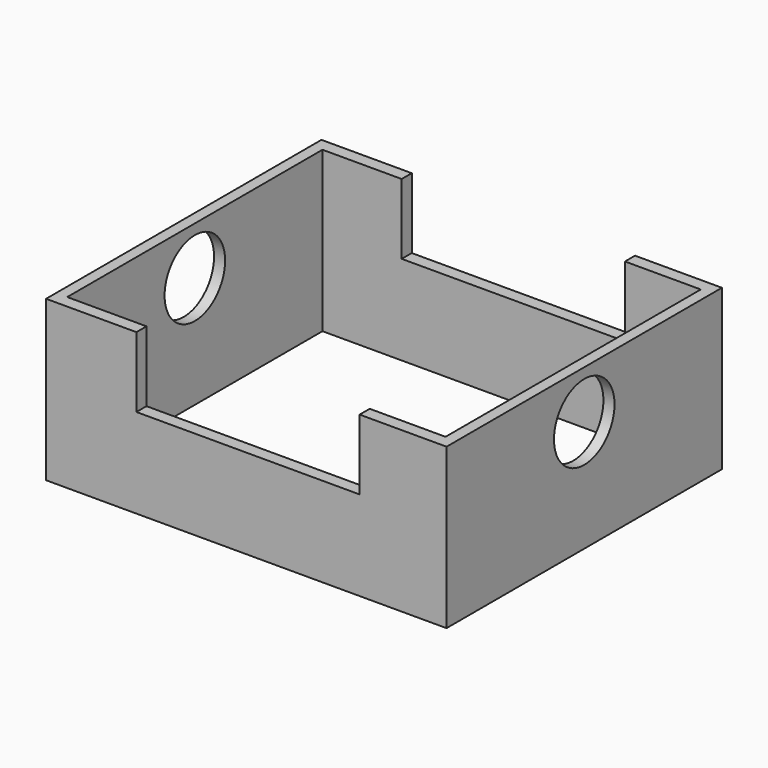
from build123d import *

# Parameters (mm, degrees)
F0_W     = 136.2489163876
F0_H     = 117.116086185
F1_DEPTH = 54.356
F2_W     = 128.7117451429
F2_H     = 108.5429564118
F3_DEPTH = 54.357
F4_R     = 12.8732628807
F5_DEPTH = 136.2499163876
F6_W     = 75.9515240788
F6_H     = 23.9174129305
F7_DEPTH = 117.117086185


with BuildPart() as f1:
    # F0 (on Top) → F1 (new body)
    with BuildSketch(Plane.XY):
        Rectangle(F0_W, F0_H)
    extrude(amount=F1_DEPTH)

    # F2 (on face) → F3 (cut, through all)
    with BuildSketch(Plane.XY.offset(54.356)):
        Rectangle(F2_W, F2_H)
    extrude(amount=-F3_DEPTH, mode=Mode.SUBTRACT)

    # F4 (on face) → F5 (cut, through all)
    with BuildSketch(Plane.YZ.offset(68.1244581938)):
        with Locations((0, 37.9757620394)):
            Circle(F4_R)
    extrude(amount=-F5_DEPTH, mode=Mode.SUBTRACT)

    # F6 (on face) → F7 (cut, through all)
    with BuildSketch(Plane.XZ.offset(58.5580430925)):
        with Locations((0.5797818303, 42.3972935348)):
            Rectangle(F6_W, F6_H)
    extrude(amount=-F7_DEPTH, mode=Mode.SUBTRACT)


solid = f1.part
